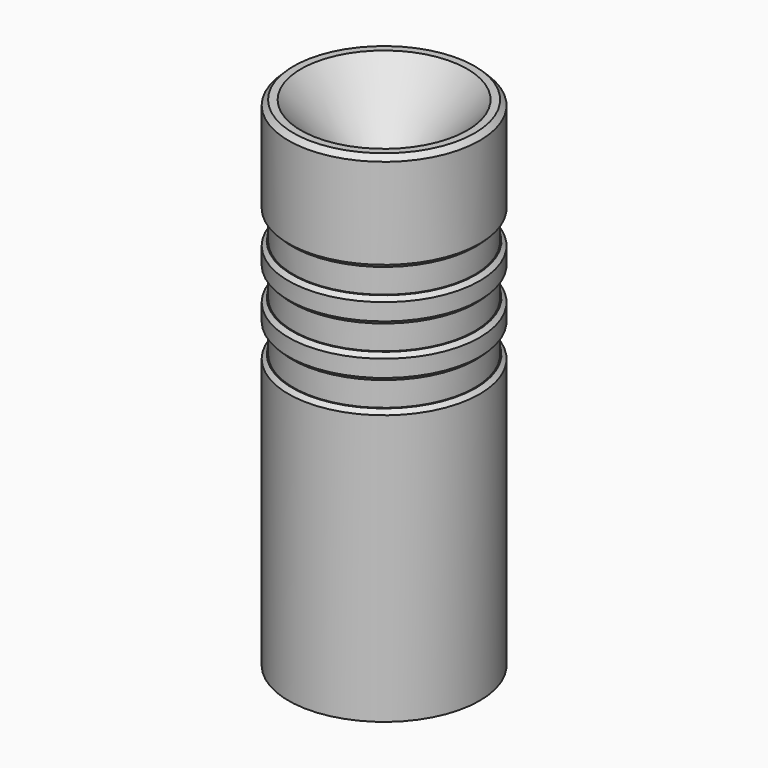
from build123d import *

# Parameters (mm, degrees)
F2_SIZE = 0.3175
F3_SIZE = 0.254


with BuildPart() as f1:
    # F0 (on Front) → F1 (revolve)
    with BuildSketch(Plane.XZ):
        Polygon((6.096, 25.4), (6.096, 31.75), (5.30225, 31.75), (0, 25.431025), (0, 0), (6.096, 0), (6.096, 17.4625), (5.7785, 17.4625), (5.7785, 19.05), (6.096, 19.05), (6.096, 20.6375), (5.7785, 20.6375), (5.7785, 22.225), (6.096, 22.225), (6.096, 23.8125), (5.7785, 23.8125), (5.7785, 25.4), align=None)
    revolve(axis=Axis((0, 0, 12.715512), (0, 0, 1)))

    # F2
    f2_edges = [f1.edges().sort_by_distance(p)[0] for p in [
        (-6.096, 0, 31.75),
    ]]
    chamfer(f2_edges, length=F2_SIZE)

    # F3
    f3_edges = [f1.edges().sort_by_distance(p)[0] for p in [
        (-6.096, 0, 25.4),
        (-6.096, 0, 23.8125),
        (-6.096, 0, 22.225),
        (-6.096, 0, 20.6375),
        (-6.096, 0, 19.05),
        (-6.096, 0, 17.4625),
    ]]
    chamfer(f3_edges, length=F3_SIZE)


solid = f1.part
